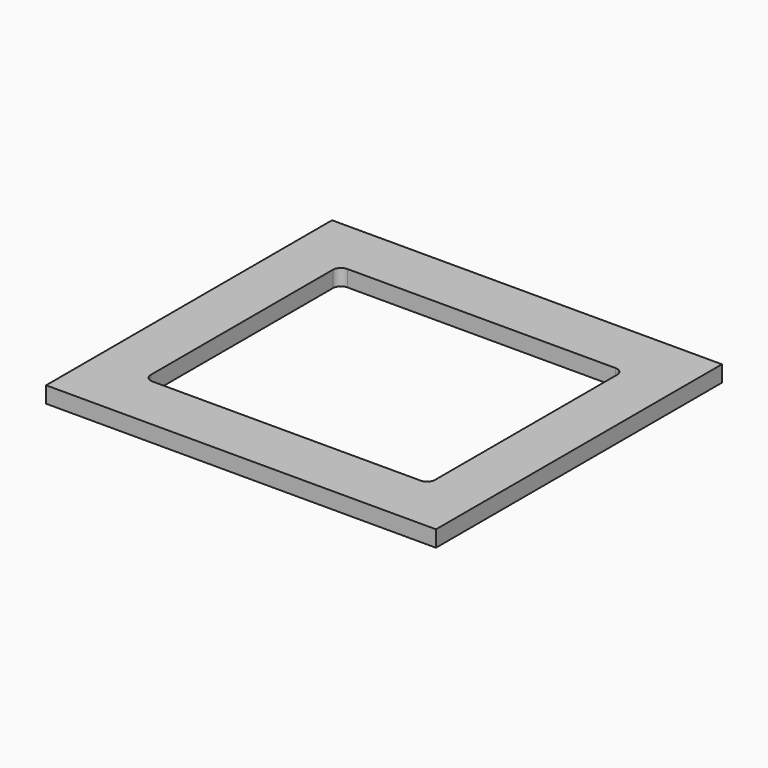
from build123d import *

# Parameters (mm, degrees)
F0_W     = 480
F0_H     = 440
F1_DEPTH = 20
F2_W     = 175
F2_H     = 150
F3_DEPTH = 20
F4_R     = 10


with BuildPart() as f1:
    # F0 (on Top) → F1 (new body)
    with BuildSketch(Plane.XY):
        with Locations((-4.628388, 17.757134)):
            Rectangle(F0_W, F0_H)
    extrude(amount=F1_DEPTH)

    # F2 (on face) → F3 (cut, through all)
    with BuildSketch(Plane.XY.offset(20)):
        with Locations((-92.128388, 92.757134)):
            Rectangle(F2_W, F2_H)
        with Locations((82.871612, 92.757134)):
            Rectangle(F2_W, F2_H)
        with Locations((-92.128388, -57.242866)):
            Rectangle(F2_W, F2_H)
        with Locations((82.871612, -57.242866)):
            Rectangle(F2_W, F2_H)
    extrude(amount=-F3_DEPTH, mode=Mode.SUBTRACT)

    # F4
    f4_edges = [f1.edges().sort_by_distance(p)[0] for p in [
        (-179.628388, 167.757134, 10),
        (-179.628388, -132.242866, 10),
        (170.371612, 167.757134, 10),
        (170.371612, -132.242866, 10),
    ]]
    fillet(f4_edges, radius=F4_R)


solid = f1.part
